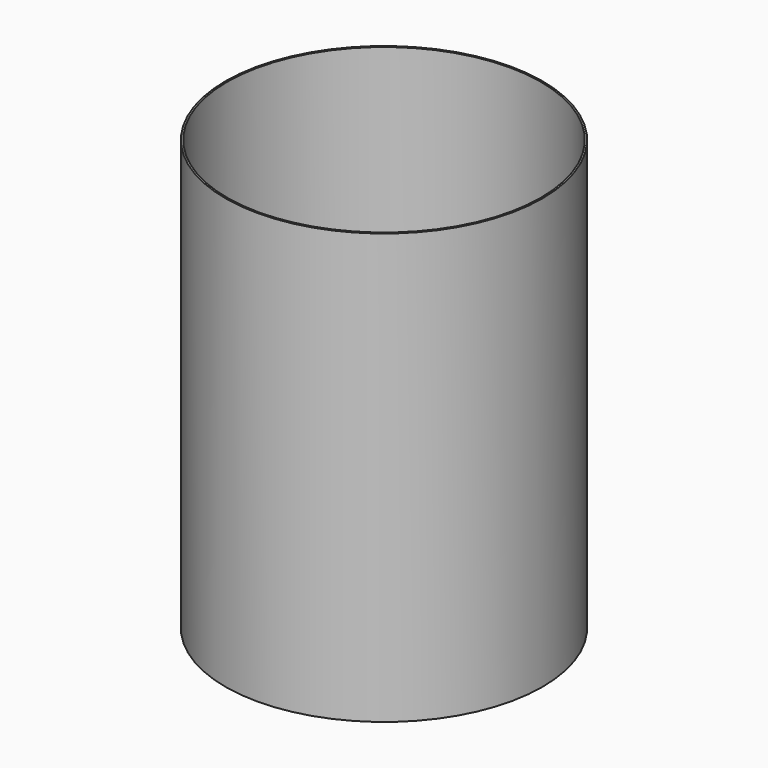
from build123d import *

# Parameters (mm, degrees)
F0_R        = 45
F0_R_2      = 20
F1_DEPTH    = 2
F1_FACE_R   = 45
F1_FACE_R_2 = 20
F2_DEPTH    = 120
F3_R        = 44.5
F4_DEPTH    = 120


with BuildPart() as f1:
    # F0 (on Top) → F1 (new body)
    with BuildSketch(Plane.XY):
        Circle(F0_R)
        Circle(F0_R_2, mode=Mode.SUBTRACT)
    extrude(amount=F1_DEPTH)

    # F1_face (on face) → F2 (join)
    with BuildSketch(Plane.XY.offset(2)):
        Circle(F1_FACE_R)
        Circle(F1_FACE_R_2, mode=Mode.SUBTRACT)
    extrude(amount=F2_DEPTH)

    # F3 (on face) → F4 (cut)
    with BuildSketch(Plane.XY.offset(122)):
        Circle(F3_R)
    extrude(amount=-F4_DEPTH, mode=Mode.SUBTRACT)


solid = f1.part
